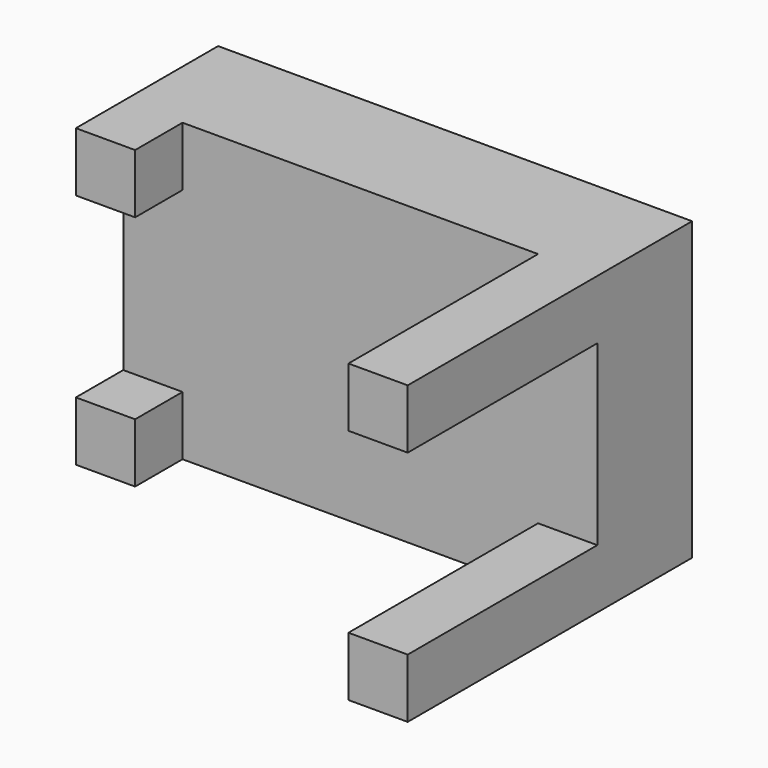
from build123d import *

# Parameters (mm, degrees)
F0_W     = 101.6
F0_H     = 63.5
F1_DEPTH = 25.4
F2_W     = 12.7
F2_H     = 12.7
F3_DEPTH = 12.7
F4_DEPTH = 50.8


with BuildPart() as f1:
    # F0 (on Front) → F1 (new body)
    with BuildSketch(Plane.XZ):
        Rectangle(F0_W, F0_H)
    extrude(amount=F1_DEPTH)

    # F2 (on face) → F3 (join)
    with BuildSketch(Plane.XZ.offset(25.4)):
        with Locations((-44.45, 25.4)):
            Rectangle(F2_W, F2_H)
        with Locations((-44.45, -25.4)):
            Rectangle(F2_W, F2_H)
    extrude(amount=F3_DEPTH)

    # F2 (on face) → F4 (join)
    with BuildSketch(Plane.XZ.offset(25.4)):
        with Locations((44.45, 25.4)):
            Rectangle(F2_W, F2_H)
        with Locations((44.45, -25.4)):
            Rectangle(F2_W, F2_H)
    extrude(amount=F4_DEPTH)


solid = f1.part
